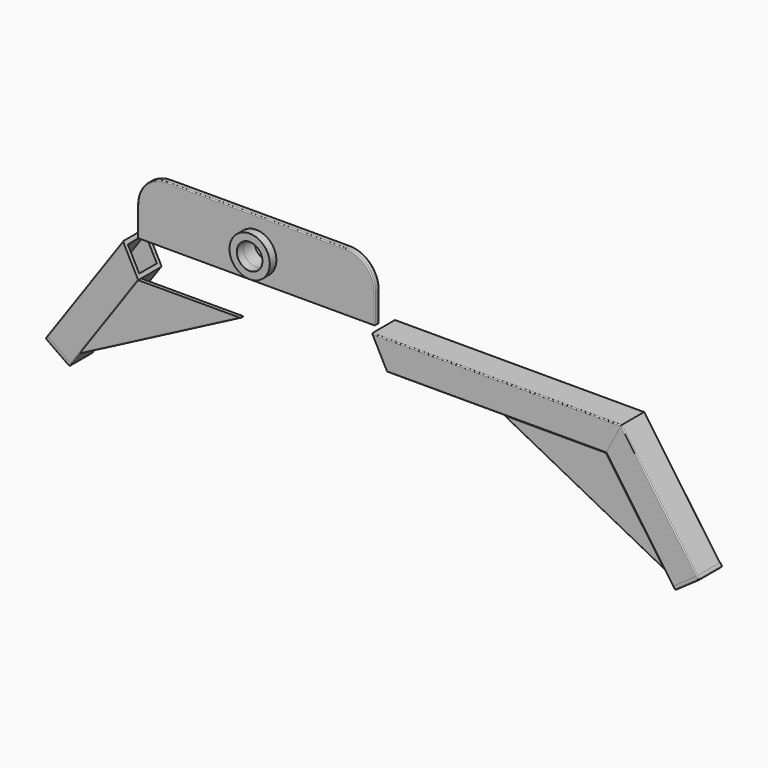
from build123d import *

# Parameters (mm, degrees)
F0_W           = 50.8
F0_H           = 50.8
F0_W_2         = 38.1
F0_H_2         = 38.1
F1_DEPTH       = 431.8
F3_DEPTH       = 50.801
F6_W           = 50.8
F6_H           = 50.8
F6_W_2         = 38.1
F6_H_2         = 38.1
F7_DEPTH       = 228.6
F9_DEPTH       = 50.801
F11_DEPTH      = 6.35
F12_W          = 50.8
F12_H          = 50.8
F12_W_2        = 38.1
F12_H_2        = 38.1
F13_DEPTH      = 6.35
F15_W          = 411.099
F15_H          = 9.525
F16_DEPTH      = 101.6
F17_R          = 50.8
F18_R          = 22.225
F19_DEPTH      = 25.4
F20_R          = 34.925
F20_R_2        = 22.225
F21_DEPTH      = 14.2875
F21_DEPTH_BACK = 23.8125
F24_DEPTH      = 50.801
F26_R          = 1.651
F26_2_R        = 1.651
F26_3_R        = 1.651
F26_4_R        = 1.651
F26_5_R        = 1.651
F26_6_R        = 1.651
F26_7_R        = 1.651
F26_8_R        = 1.651


with BuildPart() as f1:
    # F0 (on Right) → F1 (new body)
    with BuildSketch(Plane.YZ):
        with Locations((-32.5458780862, 20.5363309942)):
            Rectangle(F0_W, F0_H)
        with Locations((-32.5458780862, 20.5363309942)):
            Rectangle(F0_W_2, F0_H_2, mode=Mode.SUBTRACT)
    extrude(amount=F1_DEPTH)

    # F2 (on face) → F3 (cut, through all)
    with BuildSketch(Plane(origin=(0, -7.1458780862, 0), x_dir=(-1, 0, 0), z_dir=(0, 1, 0))):
        Polygon((-405.355193832, -4.8636690058), (-431.8, 45.9363309942), (-431.8, -4.8636690058), align=None)
    extrude(amount=-F3_DEPTH, mode=Mode.SUBTRACT)


with BuildPart() as f7:
    # F6 (on face) → F7 (new body)
    with BuildSketch(Plane(origin=(120.4748354254, 0, -172.0558960753), x_dir=(0.8191520443, 0, 0.5735764364), z_dir=(-0.5735764364, 0, 0.8191520443))):
        with Locations((354.6578497547, -32.5458780862)):
            Rectangle(F6_W, F6_H)
        with Locations((354.6578497547, -32.5458780862)):
            Rectangle(F6_W_2, F6_H_2, mode=Mode.SUBTRACT)
    extrude(amount=-F7_DEPTH)

    # F8 (on face) → F9 (cut, through all)
    with BuildSketch(Plane.XZ.offset(57.9458780862)):
        Polygon((405.355193832, -4.8636690058), (431.8, 45.9363309942), (390.1870761501, 16.7986480276), align=None)
    extrude(amount=-F9_DEPTH, mode=Mode.SUBTRACT)


with BuildPart() as f11:
    # F10 (on face) → F11 (new body)
    with BuildSketch(Plane.XZ.offset(57.9458780862)):
        Polygon((405.355193832, -4.8636690058), (227.555193832, -4.8636690058), (507.3370842152, -150.5089024804), align=None)
    extrude(amount=-F11_DEPTH)


with BuildPart() as f13:
    # F12 (on face) → F13 (new body)
    with BuildSketch(Plane(origin=(251.5944087752, 0, -359.3140533998), x_dir=(0.8191520443, 0, 0.5735764364), z_dir=(0.5735764364, 0, -0.8191520443))):
        with Locations((354.6578497547, 32.5458780862)):
            Rectangle(F12_W, F12_H)
        with Locations((354.6578497547, 32.5458780862)):
            Rectangle(F12_W_2, F12_H_2, mode=Mode.SUBTRACT)
        with Locations((354.6578497547, 32.5458780862)):
            Rectangle(F12_W_2, F12_H_2)
    extrude(amount=F13_DEPTH)


with BuildPart() as f14_1:
    # F14: instance of F7
    add(f7.part.mirror(Plane(origin=(0, -32.5458780862, 20.5363309942), x_dir=(0, 1, 0), z_dir=(-1, 0, 0))))

    # F26#2
    f26_2_edges = [f14_1.edges().sort_by_distance(p)[0] for p in [
        (-463.330922, -7.145878, -87.661589),
        (-463.330922, -57.945878, -87.661589),
        (-497.359787, -57.945878, -47.692748),
        (-497.359787, -7.145878, -47.692748),
    ]]
    fillet(f26_2_edges, radius=F26_2_R)


with BuildPart() as f14_2:
    # F14: instance of F1
    add(f1.part.mirror(Plane(origin=(0, -32.5458780862, 20.5363309942), x_dir=(0, 1, 0), z_dir=(-1, 0, 0))))


with BuildPart() as f14_3:
    # F14: instance of F11
    add(f11.part.mirror(Plane(origin=(0, -32.5458780862, 20.5363309942), x_dir=(0, 1, 0), z_dir=(-1, 0, 0))))

    # F26
    f26_edges = [f14_3.edges().sort_by_distance(p)[0] for p in [
        (-367.446139, -57.945878, -77.686286),
        (-367.446139, -51.595878, -77.686286),
    ]]
    fillet(f26_edges, radius=F26_R)


with BuildPart() as f14_4:
    # F14: instance of F13
    add(f13.part.mirror(Plane(origin=(0, -32.5458780862, 20.5363309942), x_dir=(0, 1, 0), z_dir=(-1, 0, 0))))

    # F26#3
    f26_3_edges = [f14_4.edges().sort_by_distance(p)[0] for p in [
        (-524.94886, -32.545878, -175.661125),
        (-523.127755, -57.945878, -173.060317),
        (-545.755322, -57.945878, -161.092283),
        (-523.127755, -7.145878, -173.060317),
        (-566.561784, -32.545878, -146.523442),
        (-564.740679, -57.945878, -143.922634),
    ]]
    fillet(f26_3_edges, radius=F26_3_R)


with BuildPart() as f16:
    # F15 (on face) → F16 (new body)
    with BuildSketch(Plane.XY.offset(45.9363309942)):
        with Locations((-216.7255, -33.2689601928)):
            Rectangle(F15_W, F15_H)
        with Locations((-216.7255, -33.2689601928)):
            Rectangle(F15_W, F15_H)
    extrude(amount=F16_DEPTH)

    # F17
    f17_edges = [f16.edges().sort_by_distance(p)[0] for p in [
        (-422.275, -33.26896, 147.536331),
        (-11.176, -33.26896, 147.536331),
    ]]
    fillet(f17_edges, radius=F17_R)

    # F18 (on face) → F19 (cut)
    with BuildSketch(Plane.XZ.offset(38.0314601928)):
        with Locations((-216.7255, 90.3863309942)):
            Circle(F18_R)
    extrude(amount=-F19_DEPTH, mode=Mode.SUBTRACT)


with BuildPart() as f21:
    # F20 (on face) → F21 (new body, two sides)
    with BuildSketch(Plane.XZ.offset(38.0314601928)) as f21_sk:
        with Locations((-216.7255, 90.3863309942)):
            Circle(F20_R)
        with Locations((-216.7255, 90.3863309942)):
            Circle(F20_R_2, mode=Mode.SUBTRACT)
    extrude(amount=F21_DEPTH)
    extrude(f21_sk.sketch, amount=-F21_DEPTH_BACK)


with BuildPart() as f16_1:
    add(f16.part)

    # F22: cut F21
    add(f21.part, mode=Mode.SUBTRACT)

    # F26#4
    f26_4_edges = [f16_1.edges().sort_by_distance(p)[0] for p in [
        (-422.275, -28.50646, 71.336331),
        (-422.275, -38.03146, 71.336331),
        (-407.396024, -28.50646, 132.657355),
        (-407.396024, -38.03146, 132.657355),
    ]]
    fillet(f26_4_edges, radius=F26_4_R)


with BuildPart() as f1_1:
    add(f1.part)

    # F23 (on face) → F24 (cut, through all)
    with BuildSketch(Plane.XZ.offset(57.9458780862)):
        Polygon((26.444806168, -4.8636690058), (0, 45.9363309942), (0, -4.8636690058), align=None)
    extrude(amount=-F24_DEPTH, mode=Mode.SUBTRACT)

    # F26#5
    f26_5_edges = [f1_1.edges().sort_by_distance(p)[0] for p in [
        (215.9, -7.145878, -4.863669),
        (215.9, -7.145878, 45.936331),
        (215.9, -57.945878, 45.936331),
        (215.9, -57.945878, -4.863669),
    ]]
    fillet(f26_5_edges, radius=F26_5_R)


with BuildPart() as f11_1:
    add(f11.part)

    # F26#6
    f26_6_edges = [f11_1.edges().sort_by_distance(p)[0] for p in [
        (367.446139, -57.945878, -77.686286),
        (367.446139, -51.595878, -77.686286),
    ]]
    fillet(f26_6_edges, radius=F26_6_R)


with BuildPart() as f7_1:
    add(f7.part)

    # F26#7
    f26_7_edges = [f7_1.edges().sort_by_distance(p)[0] for p in [
        (463.330922, -57.945878, -87.661589),
        (497.359787, -57.945878, -47.692748),
        (463.330922, -7.145878, -87.661589),
        (497.359787, -7.145878, -47.692748),
    ]]
    fillet(f26_7_edges, radius=F26_7_R)


with BuildPart() as f13_1:
    add(f13.part)

    # F26#8
    f26_8_edges = [f13_1.edges().sort_by_distance(p)[0] for p in [
        (523.127755, -57.945878, -173.060317),
        (523.127755, -7.145878, -173.060317),
        (564.740679, -57.945878, -143.922634),
        (545.755322, -57.945878, -161.092283),
        (524.94886, -32.545878, -175.661125),
        (545.755322, -7.145878, -161.092283),
        (566.561784, -32.545878, -146.523442),
    ]]
    fillet(f26_8_edges, radius=F26_8_R)


solid = Compound([f14_1.part, f14_3.part, f14_4.part, f21.part, f16_1.part, f1_1.part, f11_1.part, f7_1.part, f13_1.part])
